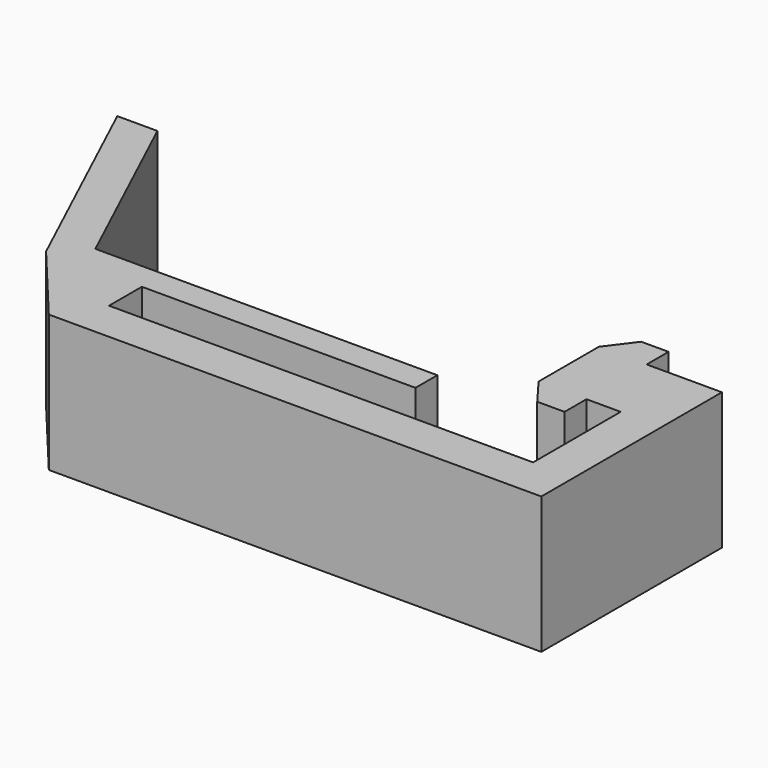
from build123d import *

# Parameters (mm, degrees)
F1_DEPTH = 10


with BuildPart() as f1:
    # F0 (on Top) → F1 (new body)
    with BuildSketch(Plane.XY):
        Polygon((14.03839, -4.401262), (14.03839, -2.401262), (16.53839, -2.401262), (16.53839, -10.401262), (-14.46161, -10.401262), (-14.46161, -7.401262), (5.53839, -7.401262), (5.53839, -5.401262), (-14.46161, -5.401262), (-16.46161, -5.401262), (-19.46161, -5.401262), (-25.800884, 8.193354), (-28.733499, 8.193354), (-21.46161, -7.401262), (-16.46161, -13.401262), (-14.46161, -13.401262), (16.53839, -13.401262), (19.53839, -13.401262), (19.53839, -10.401262), (19.53839, -2.401262), (19.53839, 3.098738), (16.53839, 3.098738), (14.03839, 3.098738), (14.03839, 5.098738), (12.03839, 5.098738), (10.53839, 3.098738), (10.53839, -2.401262), (12.03839, -4.401262), align=None)
    extrude(amount=F1_DEPTH)


solid = f1.part
